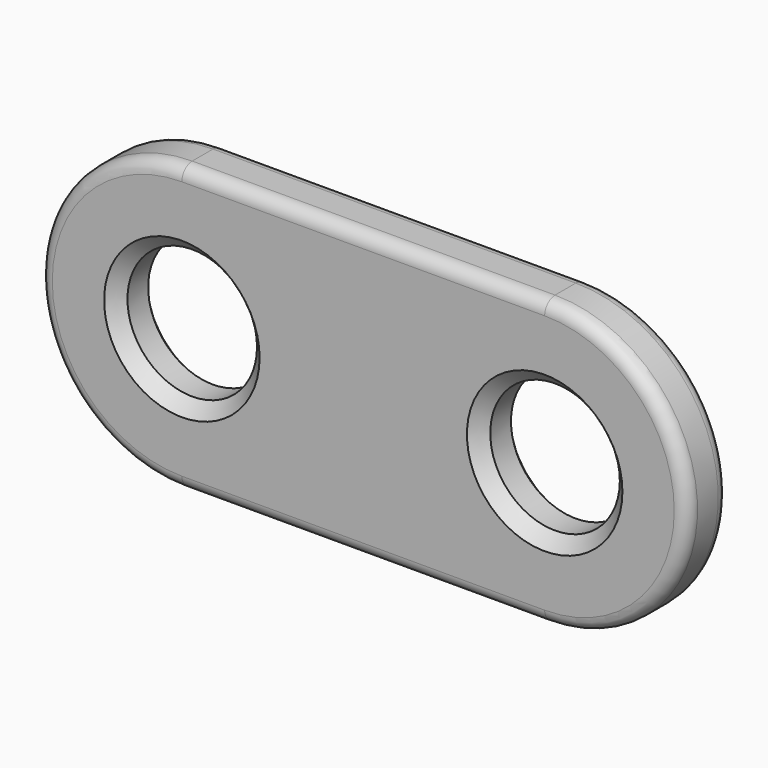
from build123d import *

# Parameters (mm, degrees)
F0_R     = 2.5
F1_DEPTH = 2
F2_SIZE  = 0.5
F3_R     = 0.5


with BuildPart() as f1:
    # F0 (on Front) → F1 (new body)
    with BuildSketch(Plane.XZ):
        with BuildLine():
            Line((-9.862112, 18.225786), (-23.862112, 18.225786))
            ThreePointArc((-23.862112, 18.225786), (-29.362112, 12.725786), (-23.862112, 7.225786))
            Line((-23.862112, 7.225786), (-9.862112, 7.225786))
            ThreePointArc((-9.862112, 7.225786), (-4.362112, 12.725786), (-9.862112, 18.225786))
        make_face()
        with Locations((-23.862112, 12.725786)):
            Circle(F0_R, mode=Mode.SUBTRACT)
        with Locations((-9.862112, 12.725786)):
            Circle(F0_R, mode=Mode.SUBTRACT)
    extrude(amount=F1_DEPTH)

    # F2
    f2_edges = [f1.edges().sort_by_distance(p)[0] for p in [
        (-26.362112, -2, 12.725786),
        (-26.362112, 0, 12.725786),
        (-12.362112, -2, 12.725786),
        (-12.362112, 0, 12.725786),
    ]]
    chamfer(f2_edges, length=F2_SIZE)

    # F3
    f3_edges = [f1.edges().sort_by_distance(p)[0] for p in [
        (-16.862112, -2, 7.225786),
        (-29.362112, 0, 12.725786),
    ]]
    fillet(f3_edges, radius=F3_R)


solid = f1.part
